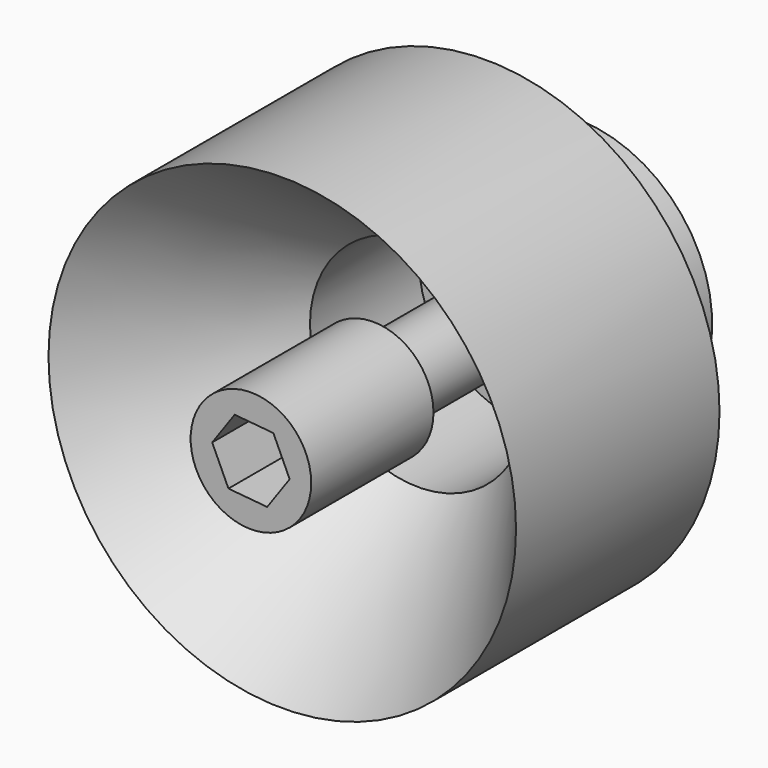
from build123d import *

# Parameters (mm, degrees)
F2_R     = 10.020621
F3_DEPTH = 25.4
F5_DEPTH = 12.7


with BuildPart() as f1:
    # F0 (on Top) → F1 (revolve)
    with BuildSketch(Plane.XY):
        Polygon((0, 42.272214), (0, 0), (20.86629, 28.241435), (20.86629, 50.906539), (32.378726, 50.906539), (32.378726, 18.887583), (38.854469, 18.887583), (38.854469, 60.979918), (16.189363, 60.979918), (16.189363, 42.272214), align=None)
    revolve(axis=Axis((38.854469, 39.93375, 0), (0, -1, 0)))

    # F2 (on face) → F3 (join)
    with BuildSketch(Plane.XZ.offset(-18.887583)):
        with Locations((38.854469, 0)):
            Circle(F2_R)
    extrude(amount=F3_DEPTH)

    # F4 (on face) → F5 (cut)
    with BuildSketch(Plane.XZ.offset(6.512417)):
        Polygon((32.418266, 0.59764), (35.118796, -5.275095), (41.554998, -5.872735), (45.290671, -0.59764), (42.590141, 5.275095), (36.153939, 5.872735), align=None)
    extrude(amount=-F5_DEPTH, mode=Mode.SUBTRACT)


solid = f1.part
